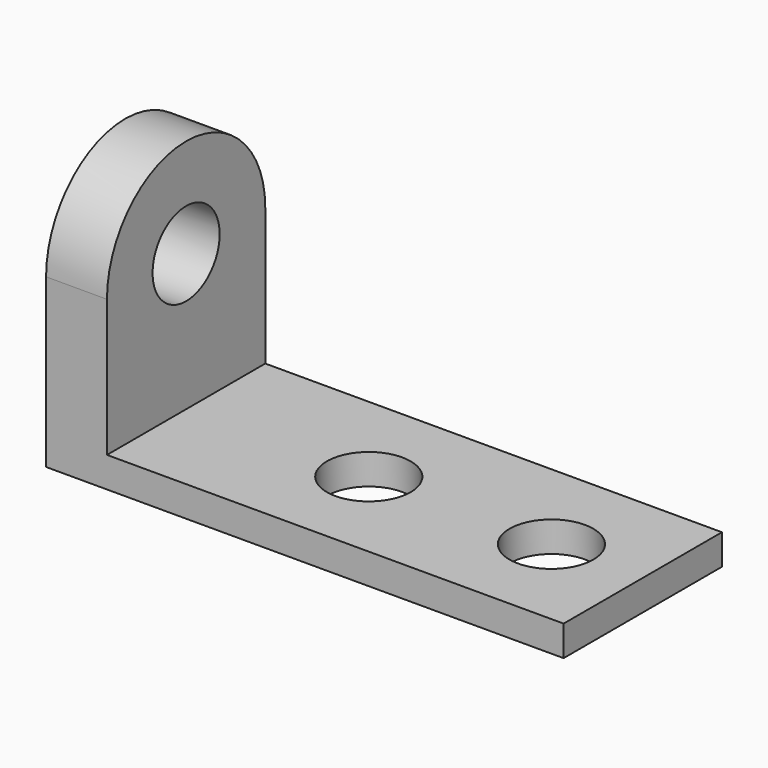
from build123d import *

# Parameters (mm, degrees)
F0_W     = 190.5
F0_H     = 12.7
F1_DEPTH = 82.55
F2_W     = 25.4
F2_H     = 127
F3_DEPTH = 82.55
F5_DEPTH = 25.401
F6_R     = 17.487125
F7_DEPTH = 25.401
F8_R     = 17.4625
F9_DEPTH = 25.4


with BuildPart() as f1:
    # F0 (on Front) → F1 (new body)
    with BuildSketch(Plane.XZ):
        with Locations((95.25, 6.35)):
            Rectangle(F0_W, F0_H)
    extrude(amount=F1_DEPTH)

    # F2 (on face) → F3 (join)
    with BuildSketch(Plane.XZ.offset(82.55)):
        with Locations((-12.7, 63.5)):
            Rectangle(F2_W, F2_H)
    extrude(amount=-F3_DEPTH)

    # F4 (on face) → F5 (cut, through all)
    with BuildSketch(Plane.YZ):
        with BuildLine():
            ThreePointArc((-82.55, 69.85), (-41.275, 111.125), (0, 69.85))
            Line((0, 69.85), (0, 127))
            Line((0, 127), (-82.55, 127))
            Line((-82.55, 127), (-82.55, 69.85))
        make_face()
    extrude(amount=-F5_DEPTH, mode=Mode.SUBTRACT)

    # F6 (on face) → F7 (cut, through all)
    with BuildSketch(Plane.YZ):
        with Locations((-41.275, 69.85)):
            Circle(F6_R)
    extrude(amount=-F7_DEPTH, mode=Mode.SUBTRACT)

    # F8 (on face) → F9 (cut)
    with BuildSketch(Plane.XY.offset(12.7)):
        with Locations((76.2, -41.275)):
            Circle(F8_R)
        with Locations((152.4, -41.275)):
            Circle(F8_R)
    extrude(amount=-F9_DEPTH, mode=Mode.SUBTRACT)


solid = f1.part
